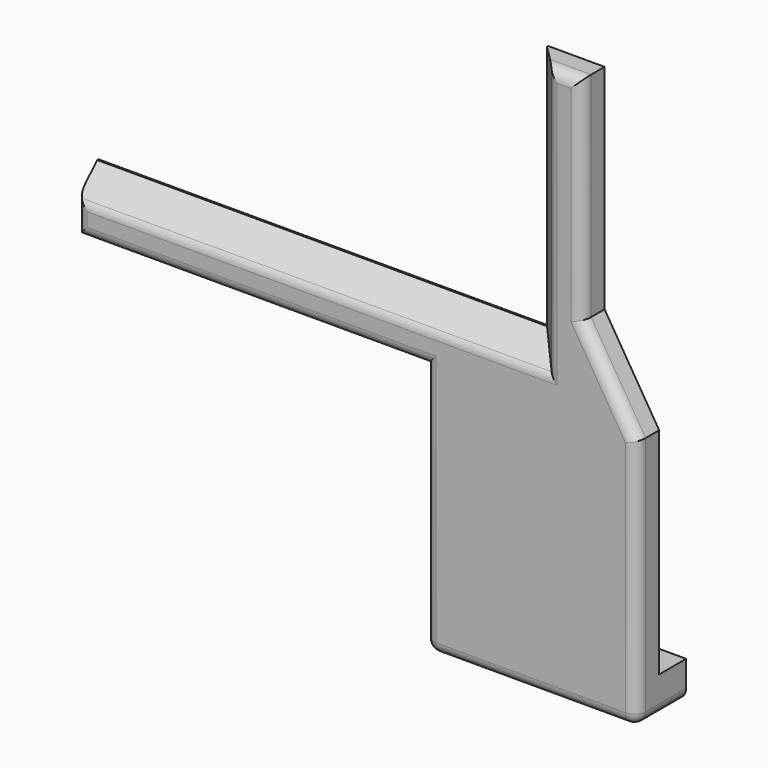
from build123d import *

# Parameters (mm, degrees)
F0_W          = 37.648660762
F0_H          = 6.6216221157
F1_DEPTH      = 6
F1_DEPTH_BACK = 5
F0_R          = 7
F2_DEPTH      = 5
F3_DEPTH      = 2.2
F4_SIZE       = 4.7
F5_R          = 1.2
F6_R          = 2
F8_DEPTH      = 2
F8_DEPTH_BACK = 3


with BuildPart() as f1:
    # F0 (on Front) → F1 (new body, two sides)
    with BuildSketch(Plane.XZ) as f1_sk:
        with Locations((37.9482610798, -64.9883002128)):
            Rectangle(F0_W, F0_H)
    extrude(amount=-F1_DEPTH)
    extrude(f1_sk.sketch, amount=F1_DEPTH_BACK)

    # F0 (on Front) → F2 (join)
    with BuildSketch(Plane.XZ):
        Polygon((19.1239306988, -23.4612585763), (19.1239306988, -61.677489155), (56.7725914607, -61.677489155), (56.7725914607, -23.4612585763), (47.0698534062, -23.4612585763), (37.0698534062, -23.4612585763), align=None)
        with Locations((34.8266364816, -44.477489155)):
            Circle(F0_R, mode=Mode.SUBTRACT)
        Polygon((-42.9301465938, -23.4612585763), (19.1239306988, -23.4612585763), (37.0698534062, -23.4612585763), (37.0698534062, -13.4612585763), (-42.9301465938, -13.4612585763), align=None)
        Polygon((37.0698534062, -13.4612585763), (37.0698534062, -23.4612585763), (47.0698534062, -23.4612585763), (47.0698534062, -7.6851719059), (47.0698534062, 30.268489238), (37.0698534062, 30.268489238), align=None)
        with Locations((34.8266364816, -44.477489155)):
            Circle(F0_R)
        Polygon((47.0698534062, -23.4612585763), (56.7725914607, -23.4612585763), (47.0698534062, -7.6851719059), align=None)
    extrude(amount=F2_DEPTH)

    # F0 (on Front) → F3 (join)
    with BuildSketch(Plane.XZ):
        with Locations((34.8266364816, -44.477489155)):
            Circle(F0_R)
    extrude(amount=-F3_DEPTH)

    # F4
    f4_edges = [f1.edges().sort_by_distance(p)[0] for p in [
        (-2.930147, -5, -13.461259),
        (37.069853, -5, 8.403615),
    ]]
    chamfer(f4_edges, length=F4_SIZE)

    # F5
    f5_edges = [f1.edges().sort_by_distance(p)[0] for p in [
        (27.826636, 2.2, -44.477489),
    ]]
    fillet(f5_edges, radius=F5_R)

    # F6
    f6_edges = [f1.edges().sort_by_distance(p)[0] for p in [
        (51.921222, -5, -15.573215),
        (47.069853, -5, 11.291659),
        (56.772591, -5, -45.880185),
        (37.948261, -5, -68.299111),
        (44.419853, -5, 30.268489),
        (41.769853, -5, 6.053615),
        (-0.580147, -5, -18.161259),
        (-42.930147, -5, -20.811259),
        (-11.903108, -5, -23.461259),
        (19.123931, -5, -45.880185),
        (19.123931, 0.5, -68.299111),
        (56.772591, 0.5, -68.299111),
    ]]
    fillet(f6_edges, radius=F6_R)

    # F7 (on face) → F8 (cut, two sides)
    with BuildSketch(Plane.XZ) as f8_sk:
        with BuildLine():
            ThreePointArc((19.1239306988, -30.7265526876), (22.3891362533, -29.5527672873), (23.7676569653, -26.3685844839))
            ThreePointArc((23.7676569653, -26.3685844839), (23.4811232341, -24.8128381171), (22.6591250093, -23.4612585763))
            Line((22.6591250093, -23.4612585763), (19.1239306988, -23.4612585763))
            Line((19.1239306988, -23.4612585763), (19.1239306988, -30.7265526876))
        make_face()
    extrude(amount=-F8_DEPTH, mode=Mode.SUBTRACT)
    extrude(f8_sk.sketch, amount=F8_DEPTH_BACK, mode=Mode.SUBTRACT)


solid = f1.part
